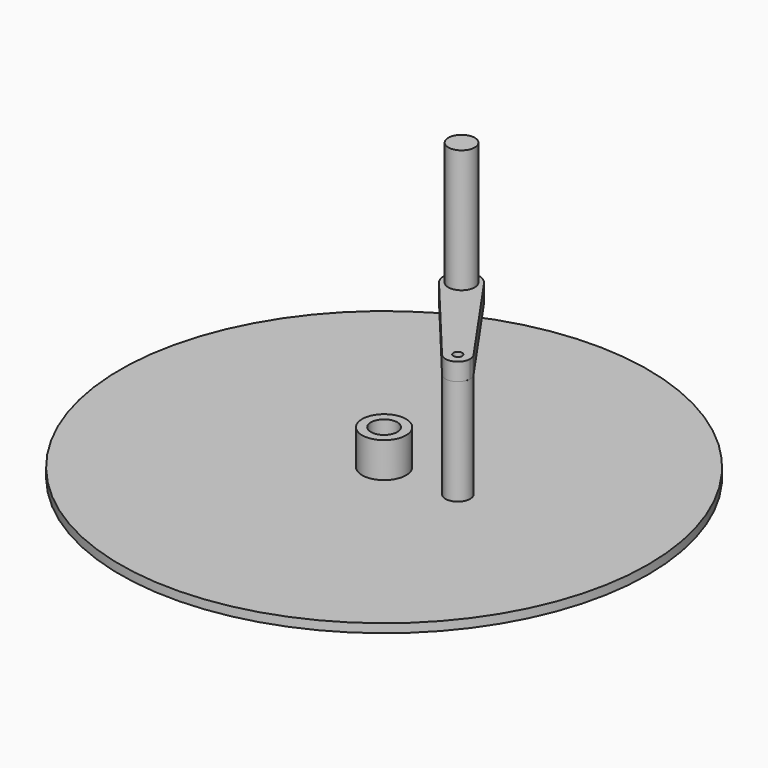
from build123d import *

# Parameters (mm, degrees)
F0_R      = 150
F1_DEPTH  = 5
F2_R      = 7.5
F3_DEPTH  = 5.001
F2_R_2    = 12.5
F4_DEPTH  = 25
F5_DEPTH  = 25
F6_R      = 7
F7_DEPTH  = 60
F9_DEPTH  = 10
F10_R     = 7.5
F11_DEPTH = 70
F12_R     = 2.5
F13_DEPTH = 40


with BuildPart() as f1:
    # F0 (on Top) → F1 (new body)
    with BuildSketch(Plane.XY):
        Circle(F0_R)
    extrude(amount=F1_DEPTH)

    # F2 (on Top) → F3 (cut, through all)
    with BuildSketch(Plane.XY):
        Circle(F2_R)
    extrude(amount=F3_DEPTH, mode=Mode.SUBTRACT)

    # F2 (on Top) → F4 (join)
    with BuildSketch(Plane.XY):
        Circle(F2_R_2)
        Circle(F2_R, mode=Mode.SUBTRACT)
    extrude(amount=F4_DEPTH)

    # F2 (on Top) → F5 (join)
    with BuildSketch(Plane.XY):
        Circle(F2_R_2)
        Circle(F2_R, mode=Mode.SUBTRACT)
    extrude(amount=-F5_DEPTH)

    # F6 (on face) → F7 (join)
    with BuildSketch(Plane.XY.offset(5)):
        with Locations((41.87339, 0)):
            Circle(F6_R)
    extrude(amount=F7_DEPTH)


with BuildPart() as f9:
    # F8 (on face) → F9 (new body)
    with BuildSketch(Plane.XY.offset(65)):
        with BuildLine():
            ThreePointArc((-7.686115, 48.602842), (3.401386, 45.596247), (10, 55))
            ThreePointArc((10, 55), (9.54251, 57.990066), (8.211901, 60.706548))
            ThreePointArc((8.211901, 60.706548), (-6.05756, 62.956504), (-7.686115, 48.602842))
        make_face()
        with BuildLine():
            ThreePointArc((8.211901, 60.706548), (9.54251, 57.990066), (10, 55))
            ThreePointArc((10, 55), (3.401386, 45.596247), (-7.686115, 48.602842))
            Line((-7.686115, 48.602842), (36.493109, -4.478011))
            ThreePointArc((36.493109, -4.478011), (37.633098, 5.569553), (47.621721, 3.994583))
            Line((47.621721, 3.994583), (8.211901, 60.706548))
        make_face()
        with BuildLine():
            ThreePointArc((48.87339, 0), (48.553147, 2.093046), (47.621721, 3.994583))
            ThreePointArc((47.621721, 3.994583), (37.633098, 5.569553), (36.493109, -4.478011))
            ThreePointArc((36.493109, -4.478011), (44.25436, -6.582627), (48.87339, 0))
        make_face()
    extrude(amount=F9_DEPTH)

    # F10 (on face) → F11 (join)
    with BuildSketch(Plane.XY.offset(75)):
        with Locations((0, 55)):
            Circle(F10_R)
    extrude(amount=F11_DEPTH)


with BuildPart() as f13_tool:
    # F12 (on face) → F13 (new body)
    with BuildSketch(Plane.XY.offset(75)):
        with Locations((41.87339, 0)):
            Circle(F12_R)
    extrude(amount=-F13_DEPTH)


with BuildPart() as f1_1:
    add(f1.part)

    # F13: cut by f13_tool
    add(f13_tool.part, mode=Mode.SUBTRACT)


with BuildPart() as f9_1:
    add(f9.part)

    # F13: cut by f13_tool
    add(f13_tool.part, mode=Mode.SUBTRACT)


solid = Compound([f1_1.part, f9_1.part])
